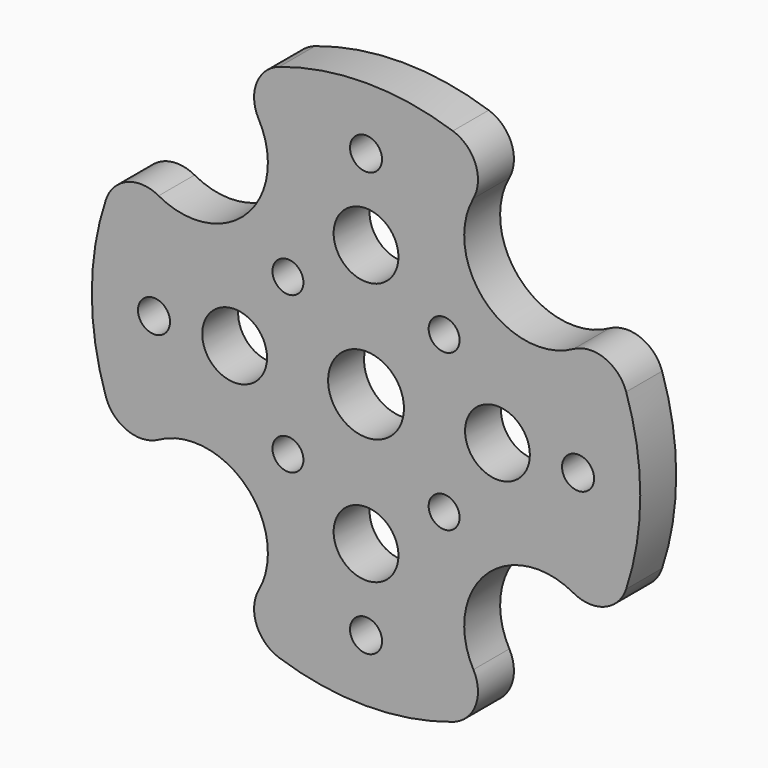
from build123d import *

# Parameters (mm, degrees)
F0_R     = 2.175
F0_R_2   = 4.4
F0_R_3   = 5.15
F1_DEPTH = 6.1
F2_R     = 2.1
F3_DEPTH = 6.101


with BuildPart() as f1:
    # F0 (on Front) → F1 (new body)
    with BuildSketch(Plane.XZ):
        with BuildLine():
            ThreePointArc((-28.172905, 14.582949), (-32.408847, 14.865425), (-35.335057, 11.789667))
            ThreePointArc((-35.335057, 11.789667), (-37.25, 0), (-35.335057, -11.789667))
            ThreePointArc((-35.335057, -11.789667), (-32.408847, -14.865425), (-28.172905, -14.582949))
            ThreePointArc((-28.172905, -14.582949), (-16.263456, -16.263456), (-14.582949, -28.172905))
            ThreePointArc((-14.582949, -28.172905), (-14.865425, -32.408847), (-11.789667, -35.335057))
            ThreePointArc((-11.789667, -35.335057), (0, -37.25), (11.789667, -35.335057))
            ThreePointArc((11.789667, -35.335057), (14.865425, -32.408847), (14.582949, -28.172905))
            ThreePointArc((14.582949, -28.172905), (16.263456, -16.263456), (28.172905, -14.582949))
            ThreePointArc((28.172905, -14.582949), (32.408847, -14.865425), (35.335057, -11.789667))
            ThreePointArc((35.335057, -11.789667), (37.25, 0), (35.335057, 11.789667))
            ThreePointArc((35.335057, 11.789667), (32.408847, 14.865425), (28.172905, 14.582949))
            ThreePointArc((28.172905, 14.582949), (16.263456, 16.263456), (14.582949, 28.172905))
            ThreePointArc((14.582949, 28.172905), (14.865425, 32.408847), (11.789667, 35.335057))
            ThreePointArc((11.789667, 35.335057), (0, 37.25), (-11.789667, 35.335057))
            ThreePointArc((-11.789667, 35.335057), (-14.865425, 32.408847), (-14.582949, 28.172905))
            ThreePointArc((-14.582949, 28.172905), (-16.263456, 16.263456), (-28.172905, 14.582949))
        make_face()
        with Locations((0, -28.8)):
            Circle(F0_R, mode=Mode.SUBTRACT)
        with Locations((0, -17.85)):
            Circle(F0_R_2, mode=Mode.SUBTRACT)
        with Locations((-28.8, 0)):
            Circle(F0_R, mode=Mode.SUBTRACT)
        with Locations((-17.85, 0)):
            Circle(F0_R_2, mode=Mode.SUBTRACT)
        Circle(F0_R_3, mode=Mode.SUBTRACT)
        with Locations((0, 17.85)):
            Circle(F0_R_2, mode=Mode.SUBTRACT)
        with Locations((0, 28.8)):
            Circle(F0_R, mode=Mode.SUBTRACT)
        with Locations((17.85, 0)):
            Circle(F0_R_2, mode=Mode.SUBTRACT)
        with Locations((28.8, 0)):
            Circle(F0_R, mode=Mode.SUBTRACT)
    extrude(amount=F1_DEPTH)

    # F2 (on face) → F3 (cut, through all)
    with BuildSketch(Plane.XZ.offset(6.1)):
        with Locations((-10.606602, 10.606602)):
            Circle(F2_R)
        with Locations((-10.606602, -10.606602)):
            Circle(F2_R)
        with Locations((10.606602, -10.606602)):
            Circle(F2_R)
        with Locations((10.606602, 10.606602)):
            Circle(F2_R)
    extrude(amount=-F3_DEPTH, mode=Mode.SUBTRACT)


solid = f1.part
